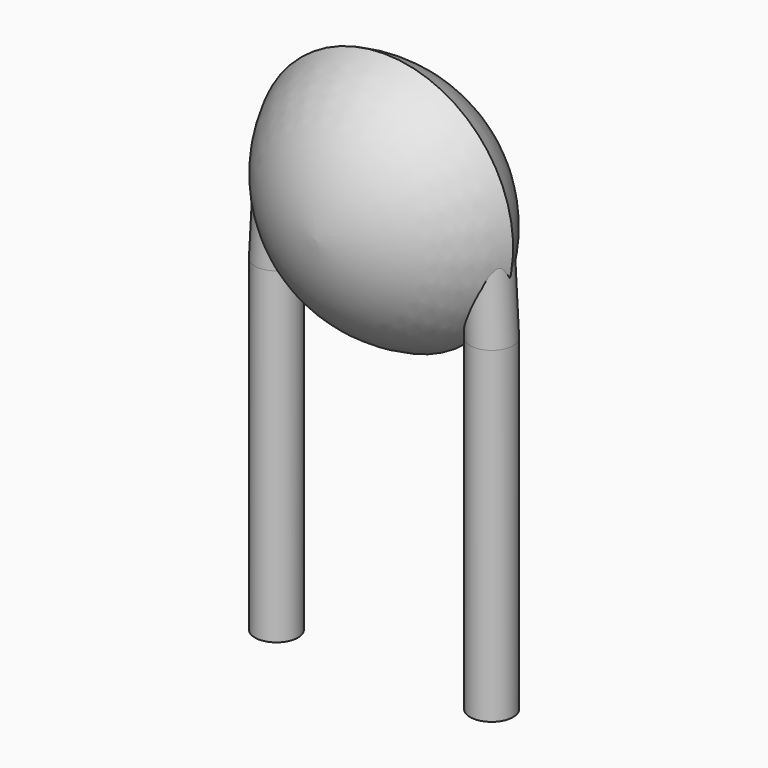
from build123d import *

# Parameters (mm, degrees)
SKETCH001_R       = 0.25
PAD001_DEPTH      = 0.6
PAD001_DEPTH_BACK = 3.2
SKETCH002_R       = 0.25
SKETCH003_R       = 0.25
SKETCH004_R       = 0.25
SKETCH005_R       = 0.25


with BuildPart() as pad001:
    # Sketch001 → Pad001 (new body, two sides)
    with BuildSketch(Plane.XY) as pad001_sk:
        Circle(SKETCH001_R)
        with Locations((2.5, 0)):
            Circle(SKETCH001_R)
    extrude(amount=PAD001_DEPTH)
    extrude(pad001_sk.sketch, amount=-PAD001_DEPTH_BACK)


with BuildPart() as revolution:
    # Sketch → Revolution (revolve)
    with BuildSketch(Plane.YZ.offset(1.25)):
        with BuildLine():
            Line((-1, 1.6), (1, 1.6))
            ThreePointArc((0, 0.1), (0.712839, 0.708107), (1, 1.6))
            ThreePointArc((-1, 1.6), (-0.712839, 0.708107), (0, 0.1))
        make_face()
    revolve(axis=Axis((1.25, -3.32079, 1.6), (0, 1, 0)))


with BuildPart() as loft_body:
    # Sketch002 → Loft section 0
    with BuildSketch(Plane.XY.offset(1.5)):
        with Locations((0.05, 0)):
            Circle(SKETCH002_R)
    # Sketch003 → Loft section 1
    with BuildSketch(Plane.XY.offset(0.6)):
        Circle(SKETCH003_R)
    loft()


with BuildPart() as loft001:
    # Sketch004 → Loft001 section 0
    with BuildSketch(Plane.XY.offset(0.6)):
        with Locations((2.5, 0)):
            Circle(SKETCH004_R)
    # Sketch005 → Loft001 section 1
    with BuildSketch(Plane.XY.offset(1.5)):
        with Locations((2.45, 0)):
            Circle(SKETCH005_R)
    loft()


solid = Compound([pad001.part, revolution.part, loft_body.part, loft001.part])
